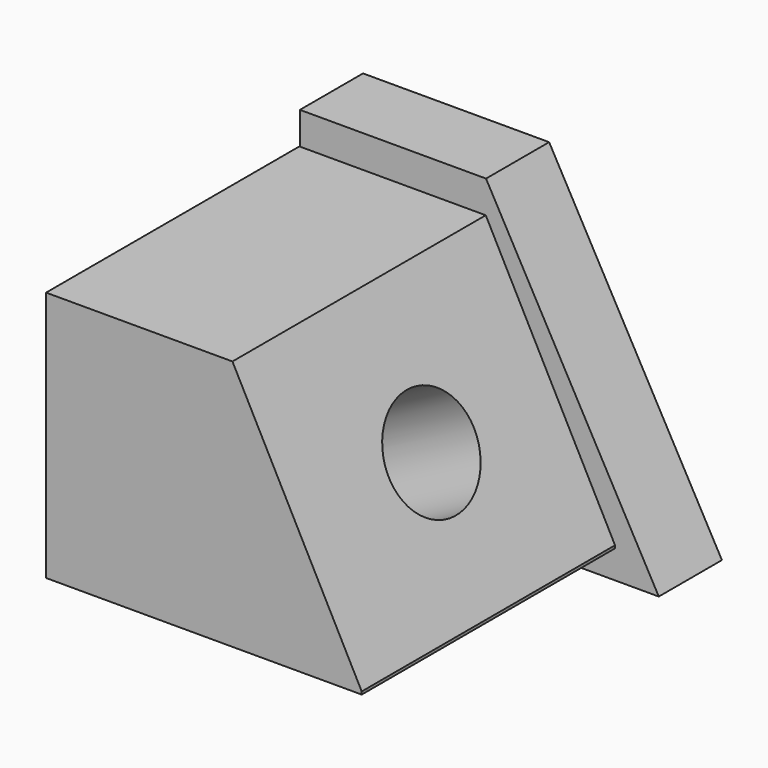
from build123d import *

# Parameters (mm, degrees)
F0_W      = 101.9186489284
F0_H      = 107.1304008365
F1_DEPTH  = 101.6
F3_DEPTH  = 101.9196489284
F5_DEPTH  = 101.9196489284
F6_R      = 17.1624207675
F7_DEPTH  = 90.5480102046
F10_DEPTH = 25.4


with BuildPart() as f1:
    # F0 (on Right) → F1 (new body)
    with BuildSketch(Plane.YZ):
        with Locations((-2.605875954, -0.1930259168)):
            Rectangle(F0_W, F0_H)
    extrude(amount=-F1_DEPTH)

    # F2 (on face) → F3 (cut, through all)
    with BuildSketch(Plane.XZ.offset(53.5652004182)):
        Polygon((13.0692059174, 68.6213597655), (-55.2626177669, 53.3721745014), (9.4016781077, -70.9377005696), align=None)
    extrude(amount=-F3_DEPTH, mode=Mode.SUBTRACT)

    # F4 (on face) → F5 (cut, through all)
    with BuildSketch(Plane.XZ.offset(53.5652004182)):
        Polygon((-121.2781071663, 53.3721745014), (-122.0502182841, 27.1203983575), (-16.0779859871, 27.1203983575), (-20.7106489688, 66.1120042205), align=None)
    extrude(amount=-F5_DEPTH, mode=Mode.SUBTRACT)

    # F6 (on face) → F7 (cut, through all)
    with BuildSketch(Plane(origin=(-21.6427491721, 0, -11.2582619458), x_dir=(0, 1, 0), z_dir=(0.8871491354, 0, 0.4614828399))):
        with Locations((0, -2.6491538156)):
            Circle(F6_R)
    extrude(amount=-F7_DEPTH, mode=Mode.SUBTRACT)

    # F9 (on face) → F10 (join)
    with BuildSketch(Plane(origin=(0, 48.3534485102, 0), x_dir=(-1, 0, 0), z_dir=(0, 1, 0))):
        Polygon((101.431466639, -54.2247891426), (101.431466639, 37.5402383506), (41.5187701583, 37.5402383506), (-14.0963997692, -62.819853425), (101.431466639, -62.819853425), align=None)
    extrude(amount=F10_DEPTH)


solid = f1.part
